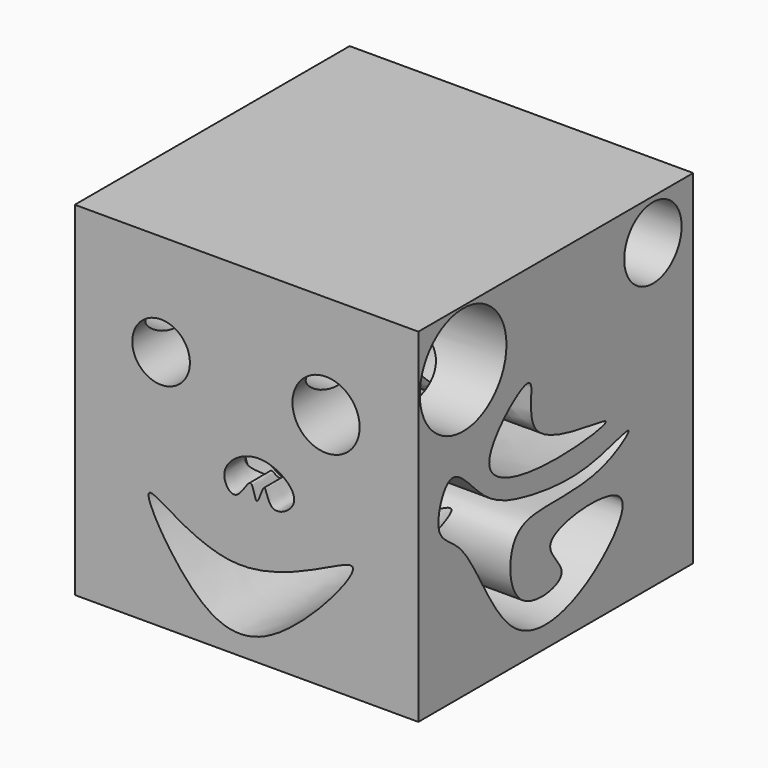
from build123d import *

# Parameters (mm, degrees)
F0_W      = 76.2
F0_H      = 76.2
F1_DEPTH  = 76.2
F2_R      = 7.4490282205
F3_DEPTH  = 171.196
F4_R      = 6.3917023015
F5_DEPTH  = 162.306
F7_DEPTH  = 197.104
F9_DEPTH  = 207.264
F10_R     = 12.0140118807
F11_DEPTH = 238.76
F12_R     = 7.9500933596
F13_DEPTH = 197.866
F15_DEPTH = 214.63
F17_DEPTH = 249.682


with BuildPart() as f1:
    # F0 (on Front) → F1 (new body)
    with BuildSketch(Plane.XZ):
        with Locations((-2.864761278, -0.2161576194)):
            Rectangle(F0_W, F0_H)
    extrude(amount=F1_DEPTH)

    # F2 (on face) → F3 (cut)
    with BuildSketch(Plane(origin=(0, 0, 0), x_dir=(-1, 0, 0), z_dir=(0, 1, 0))):
        with Locations((-14.765962027, 14.9839799851)):
            Circle(F2_R)
    extrude(amount=-F3_DEPTH, mode=Mode.SUBTRACT)

    # F4 (on face) → F5 (cut)
    with BuildSketch(Plane(origin=(0, 0, 0), x_dir=(-1, 0, 0), z_dir=(0, 1, 0))):
        with Locations((21.8244772404, 15.3308110312)):
            Circle(F4_R)
    extrude(amount=-F5_DEPTH, mode=Mode.SUBTRACT)

    # F6 (on face) → F7 (cut)
    with BuildSketch(Plane(origin=(0, 0, 0), x_dir=(-1, 0, 0), z_dir=(0, 1, 0))):
        with BuildLine():
            add(Edge.make_bspline(
                [(-0.1687933109, 1.585016842), (-4.0798508811, 1.4066834997), (-11.1726907099, -3.9949344334), (-1.9385649893, -9.4758830477), (-1.2924437634, -0.8945111169), (0.7842645048, -9.6846410246), (1.6130288996, -0.8280524627), (5.0276131021, -9.6278488433), (10.085708048, -2.7923798142), (3.7634214832, 1.7643148949), (-0.1687933109, 1.585016842)],
                knots=[0, 0, 0, 0, 0.167759972, 0.2950336188, 0.4013212504, 0.5033169079, 0.6022540417, 0.7200311459, 0.8313325151, 1, 1, 1, 1], degree=3))
        make_face()
    extrude(amount=-F7_DEPTH, mode=Mode.SUBTRACT)

    # F8 (on face) → F9 (cut)
    with BuildSketch(Plane(origin=(0, 0, 0), x_dir=(-1, 0, 0), z_dir=(0, 1, 0))):
        with BuildLine():
            add(Edge.make_bspline(
                [(-20.6452868879, -12.8243677318), (-21.7853751404, -14.2927065094), (-3.5025992375, -36.2662047769), (13.9553921937, -33.9833007184), (31.7342901334, -3.6933303071), (5.0218656898, -29.4881513849), (-19.4701297781, -11.310863185), (-20.6452868879, -12.8243677318)],
                knots=[0, 0, 0, 0, 0.2132776433, 0.3931005674, 0.5834362697, 0.7801619845, 1, 1, 1, 1], degree=3))
        make_face()
    extrude(amount=-F9_DEPTH, mode=Mode.SUBTRACT)

    # F10 (on face) → F11 (cut)
    with BuildSketch(Plane.YZ.offset(35.235238722)):
        with Locations((-63.7904182076, 25.379460305)):
            Circle(F10_R)
    extrude(amount=-F11_DEPTH, mode=Mode.SUBTRACT)

    # F12 (on face) → F13 (cut)
    with BuildSketch(Plane.YZ.offset(35.235238722)):
        with Locations((-11.177203618, 28.7922080606)):
            Circle(F12_R)
    extrude(amount=-F13_DEPTH, mode=Mode.SUBTRACT)

    # F14 (on face) → F15 (cut)
    with BuildSketch(Plane.YZ.offset(35.235238722)):
        with BuildLine():
            add(Edge.make_bspline(
                [(-45.4942882061, 15.4256094247), (-47.5227753395, 16.2578005757), (-64.3769557861, 2.3450480346), (-42.3271235645, -4.1540473546), (-12.6871361269, -0.1233344818), (-49.7423467362, 0.9237028448), (-43.8432446373, 14.7482652971), (-45.4942882061, 15.4256094247)],
                knots=[0, 0, 0, 0, 0.1966374197, 0.404130176, 0.6127289888, 0.8399511923, 1, 1, 1, 1], degree=3))
        make_face()
    extrude(amount=-F15_DEPTH, mode=Mode.SUBTRACT)

    # F16 (on face) → F17 (cut)
    with BuildSketch(Plane.YZ.offset(35.235238722)):
        with BuildLine():
            add(Edge.make_bspline(
                [(-64.2644092441, -9.6012158319), (-59.6735871414, -14.6733170323), (-52.3028749391, -36.5467639303), (-29.1103362921, -33.0805682627), (-11.2947213713, -12.8748362306), (-47.1085233293, -15.7234152139), (-31.1670709233, -26.9610249599), (-50.8581764656, -29.8568964607), (-51.7792658726, -11.4455850212), (-40.2135467562, -10.2911569712), (-25.5257500357, -11.0628116219), (-14.2287686815, -3.2719091603), (-27.3914883573, -7.8481851235), (-37.4378266593, -8.0106699062), (-47.8024315373, -6.4174637191), (-58.4196053234, -3.0685646548), (-67.5444243829, 10.189959636), (-72.8437706617, -5.1660614962), (-66.9658343504, -6.6165866701), (-64.2644092441, -9.6012158319)],
                knots=[0, 0, 0, 0, 0.0856956795, 0.1616199123, 0.2269602971, 0.3002127052, 0.346812874, 0.4017776668, 0.4615928791, 0.5129452264, 0.5809853041, 0.6269706717, 0.6756692945, 0.7324975987, 0.7856821196, 0.8432383083, 0.8991063503, 0.9495732017, 1, 1, 1, 1], degree=3))
        make_face()
    extrude(amount=-F17_DEPTH, mode=Mode.SUBTRACT)


solid = f1.part
